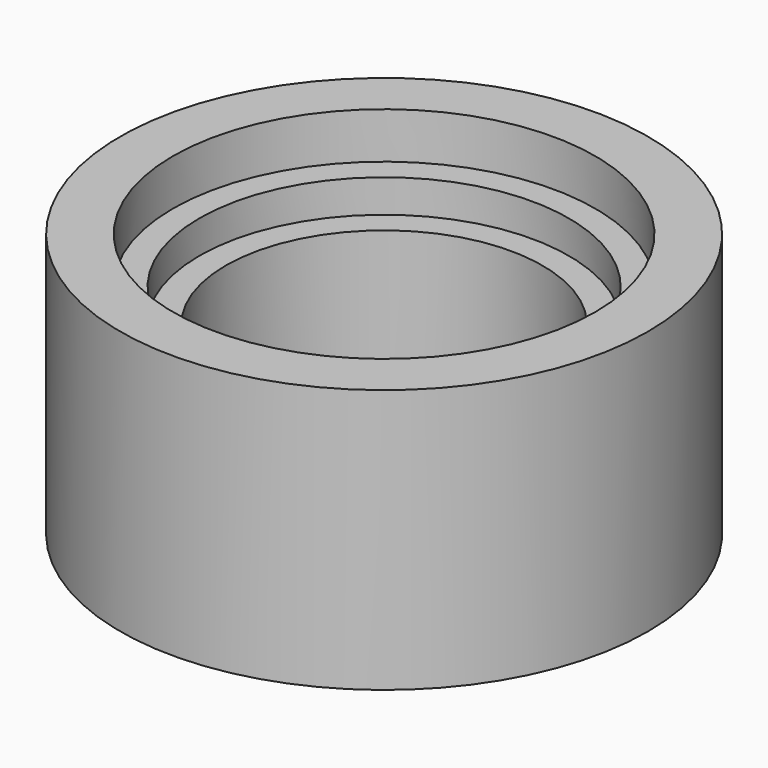
from build123d import *

# Parameters (mm, degrees)
F0_R     = 20
F0_R_2   = 16
F0_R_3   = 14
F0_R_4   = 12
F1_DEPTH = 20
F2_DEPTH = 16
F3_DEPTH = 6
F4_DEPTH = 3.5


with BuildPart() as f1:
    # F0 (on Top) → F1 (new body)
    with BuildSketch(Plane.XY):
        Circle(F0_R)
        Circle(F0_R_2, mode=Mode.SUBTRACT)
        Circle(F0_R_2)
        Circle(F0_R_3, mode=Mode.SUBTRACT)
        Circle(F0_R_3)
        Circle(F0_R_4, mode=Mode.SUBTRACT)
        Circle(F0_R_4)
    extrude(amount=-F1_DEPTH)

    # F0 (on Top) → F2 (cut)
    with BuildSketch(Plane.XY):
        Circle(F0_R_4)
    extrude(amount=-F2_DEPTH, mode=Mode.SUBTRACT)

    # F0 (on Top) → F3 (cut)
    with BuildSketch(Plane.XY):
        Circle(F0_R_3)
        Circle(F0_R_4, mode=Mode.SUBTRACT)
    extrude(amount=-F3_DEPTH, mode=Mode.SUBTRACT)

    # F0 (on Top) → F4 (cut)
    with BuildSketch(Plane.XY):
        Circle(F0_R_2)
        Circle(F0_R_3, mode=Mode.SUBTRACT)
    extrude(amount=-F4_DEPTH, mode=Mode.SUBTRACT)


solid = f1.part
